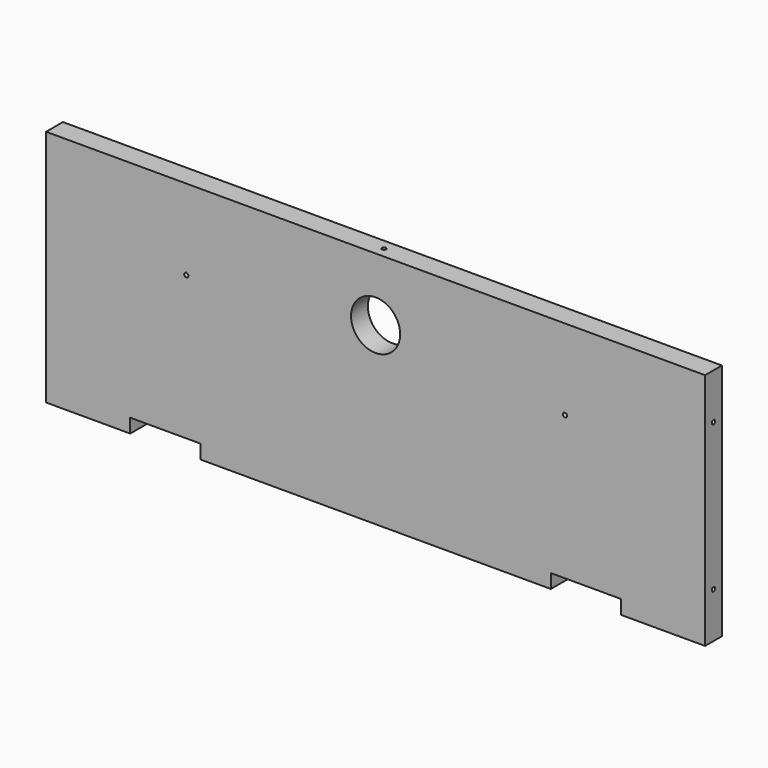
from build123d import *

# Parameters (mm, degrees)
F0_W      = 940
F0_H      = 340
F1_DEPTH  = 30
F2_R      = 3
F3_DEPTH  = 12
F4_W      = 100
F4_H      = 20
F5_DEPTH  = 30
F6_W      = 100
F6_H      = 20
F7_DEPTH  = 30
F8_R      = 35
F9_DEPTH  = 30
F11_R     = 3
F12_DEPTH = 12
F13_R     = 3
F14_DEPTH = 12
F15_R     = 3
F16_DEPTH = 12


with BuildPart() as f1:
    # F0 (on Front) → F1 (new body)
    with BuildSketch(Plane.XZ):
        with Locations((470, 170)):
            Rectangle(F0_W, F0_H)
    extrude(amount=F1_DEPTH)

    # F2 (on face) → F3 (cut)
    with BuildSketch(Plane.XY.offset(340)):
        with Locations((470, -15)):
            Circle(F2_R)
    extrude(amount=-F3_DEPTH, mode=Mode.SUBTRACT)

    # F4 (on face) → F5 (cut)
    with BuildSketch(Plane(origin=(0, 0, 0), x_dir=(-1, 0, 0), z_dir=(0, 1, 0))):
        with Locations((-770, 10)):
            Rectangle(F4_W, F4_H)
    extrude(amount=-F5_DEPTH, mode=Mode.SUBTRACT)

    # F6 (on face) → F7 (cut)
    with BuildSketch(Plane(origin=(0, 0, 0), x_dir=(-1, 0, 0), z_dir=(0, 1, 0))):
        with Locations((-170, 10)):
            Rectangle(F6_W, F6_H)
    extrude(amount=-F7_DEPTH, mode=Mode.SUBTRACT)

    # F8 (on face) → F9 (cut)
    with BuildSketch(Plane(origin=(0, 0, 0), x_dir=(-1, 0, 0), z_dir=(0, 1, 0))):
        with Locations((-470, 250)):
            Circle(F8_R)
    extrude(amount=-F9_DEPTH, mode=Mode.SUBTRACT)

    # F11 (on face) → F12 (cut)
    with BuildSketch(Plane.YZ.offset(940)):
        with Locations((-15, 275)):
            Circle(F11_R)
        with Locations((-15, 65)):
            Circle(F11_R)
    extrude(amount=-F12_DEPTH, mode=Mode.SUBTRACT)

    # F13 (on face) → F14 (cut)
    with BuildSketch(Plane(origin=(0, 0, 0), x_dir=(0, -1, 0), z_dir=(-1, 0, 0))):
        with Locations((15, 275)):
            Circle(F13_R)
        with Locations((15, 65)):
            Circle(F13_R)
    extrude(amount=-F14_DEPTH, mode=Mode.SUBTRACT)

    # F15 (on face) → F16 (cut)
    with BuildSketch(Plane.XZ.offset(30)):
        with Locations((740, 225)):
            Circle(F15_R)
        with Locations((200, 225)):
            Circle(F15_R)
    extrude(amount=-F16_DEPTH, mode=Mode.SUBTRACT)


solid = f1.part
